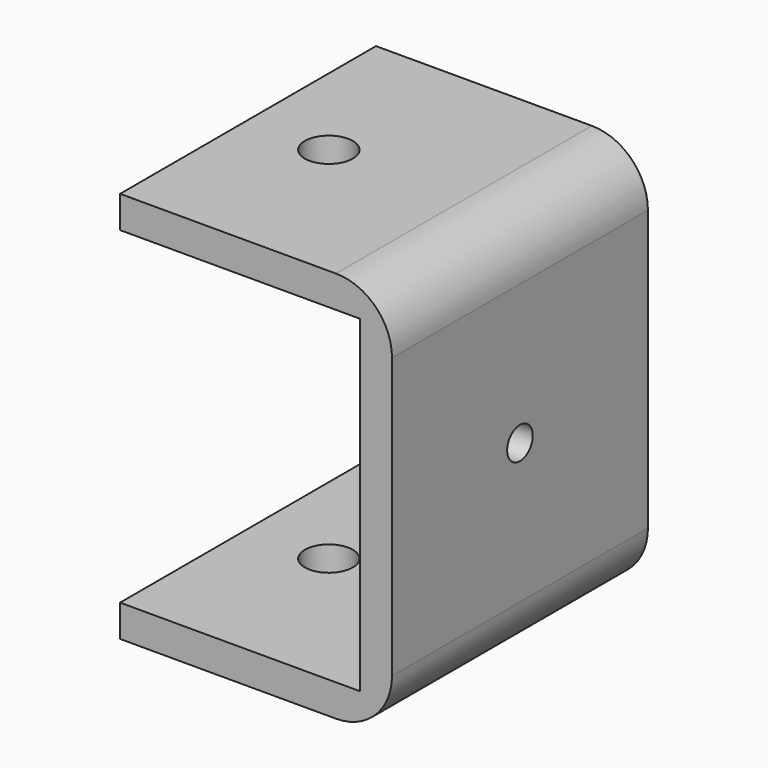
from build123d import *

# Parameters (mm, degrees)
F1_DEPTH      = 20
F1_DEPTH_BACK = 20
F2_R          = 7
F3_R          = 2
F4_DEPTH      = 25
F5_R          = 3
F6_DEPTH      = 53


with BuildPart() as f1:
    # F0 (on Front) → F1 (new body, two sides)
    with BuildSketch(Plane.XZ) as f1_sk:
        Polygon((0, 4), (0, 0), (34, 0), (34, 49), (0, 49), (0, 45), (30, 45), (30, 4), align=None)
    extrude(amount=F1_DEPTH)
    extrude(f1_sk.sketch, amount=-F1_DEPTH_BACK)

    # F2
    f2_edges = [f1.edges().sort_by_distance(p)[0] for p in [
        (34, 0, 49),
        (34, 0, 0),
    ]]
    fillet(f2_edges, radius=F2_R)

    # F3 (on face) → F4 (cut)
    with BuildSketch(Plane.YZ.offset(34)):
        with Locations((0, 24.5)):
            Circle(F3_R)
    extrude(amount=-F4_DEPTH, mode=Mode.SUBTRACT)

    # F5 (on face) → F6 (cut)
    with BuildSketch(Plane.XY.offset(49)):
        with Locations((10.1, 0)):
            Circle(F5_R)
    extrude(amount=-F6_DEPTH, mode=Mode.SUBTRACT)


solid = f1.part
